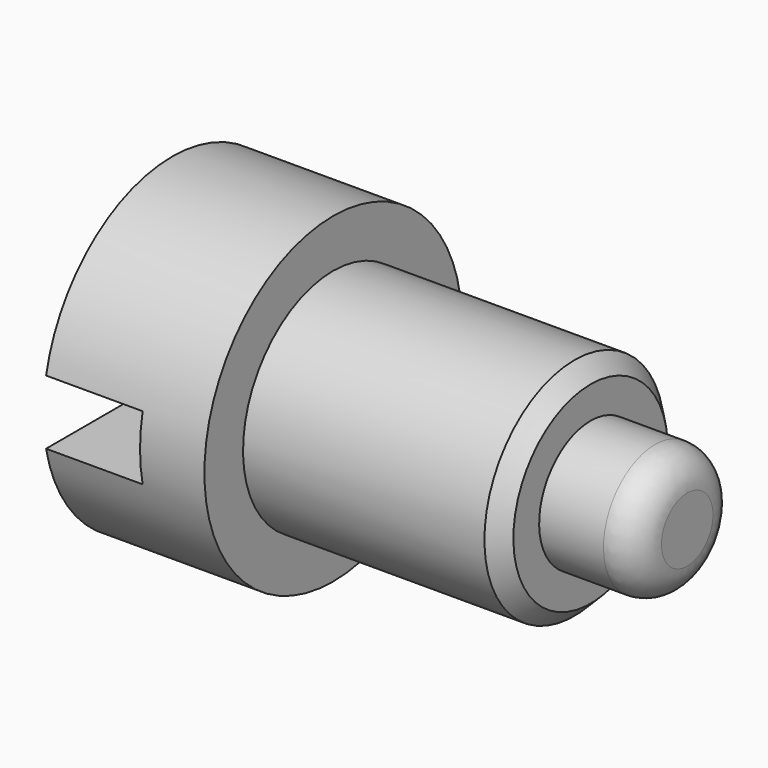
from build123d import *

# Parameters (mm, degrees)
F2_SIZE  = 0.1
F3_W     = 2
F3_H     = 0.4
F4_DEPTH = 0.6


with BuildPart() as f1:
    # F0 (on Front) → F1 (revolve)
    with BuildSketch(Plane.XZ):
        Polygon((1, 1), (0, 1), (0, 0), (1, 0), (1, 0.7), align=None)
        Polygon((2.6, 0.7), (1, 0.7), (1, 0), (2.6, 0), (2.6, 0.4), align=None)
        with BuildLine():
            Line((2.6, 0.4), (2.6, 0))
            Line((2.6, 0), (3.2, 0))
            Line((3.2, 0), (3.2, 0.2))
            ThreePointArc((3.2, 0.2), (3.141421, 0.341421), (3, 0.4))
            Line((3, 0.4), (2.6, 0.4))
        make_face()
    revolve(axis=Axis((1.6, 0, 0), (1, 0, 0)))

    # F2
    f2_edges = [f1.edges().sort_by_distance(p)[0] for p in [
        (2.6, 0, -0.7),
    ]]
    chamfer(f2_edges, length=F2_SIZE)

    # F3 (on face) → F4 (cut)
    with BuildSketch(Plane(origin=(0, 0, 0), x_dir=(0, -1, 0), z_dir=(-1, 0, 0))):
        Rectangle(F3_W, F3_H)
    extrude(amount=-F4_DEPTH, mode=Mode.SUBTRACT)


solid = f1.part
